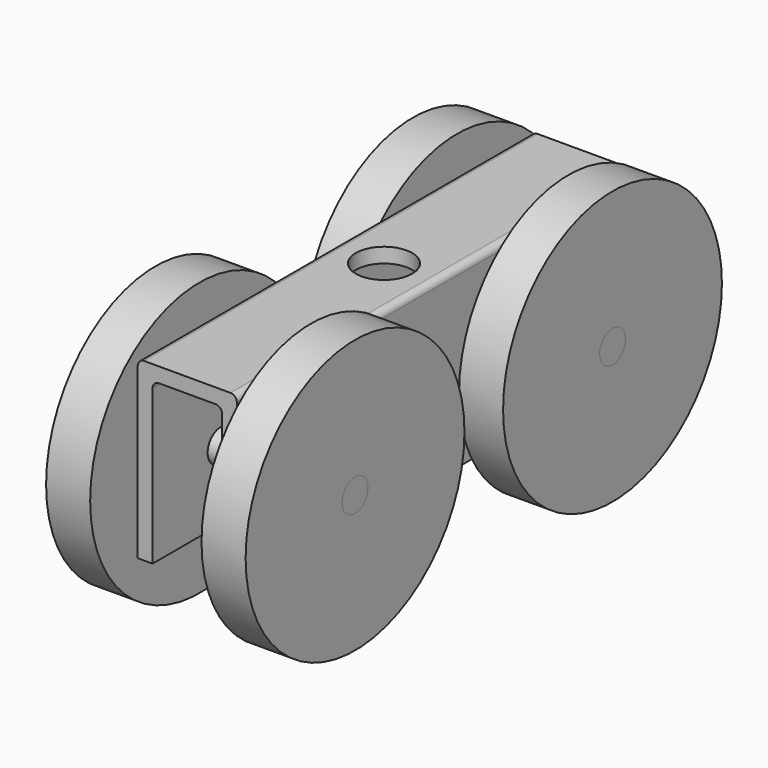
from build123d import *

# Parameters (mm, degrees)
F1_DEPTH  = 48.514
F2_R      = 3.175
F3_DEPTH  = 19.558
F4_R      = 3.175
F5_DEPTH  = 19.685
F6_R      = 26.9875
F7_DEPTH  = 8.6995
F9_R      = 5.55625
F10_DEPTH = 2.921


with BuildPart() as f1:
    # F0 (on Front) → F1 (new body, symmetric)
    with BuildSketch(Plane.XZ):
        with BuildLine():
            ThreePointArc((9.779, 16.0655), (9.407026, 16.963526), (8.509, 17.3355))
            Line((8.509, 17.3355), (-8.509, 17.3355))
            ThreePointArc((-8.509, 17.3355), (-9.407026, 16.963526), (-9.779, 16.0655))
            Line((-9.779, 16.0655), (-9.779, -17.3355))
            Line((-9.779, -17.3355), (-6.858, -17.3355))
            Line((-6.858, -17.3355), (-6.858, 13.1445))
            ThreePointArc((-6.858, 13.1445), (-6.486026, 14.042526), (-5.588, 14.4145))
            Line((-5.588, 14.4145), (5.588, 14.4145))
            ThreePointArc((5.588, 14.4145), (6.486026, 14.042526), (6.858, 13.1445))
            Line((6.858, 13.1445), (6.858, -17.3355))
            Line((6.858, -17.3355), (9.779, -17.3355))
            Line((9.779, -17.3355), (9.779, 16.0655))
        make_face()
    extrude(amount=F1_DEPTH, both=True)

    # F2 (on face) → F3 (cut, through all)
    with BuildSketch(Plane.YZ.offset(9.779)):
        with Locations((-31.75, -3.6195)):
            Circle(F2_R)
        with Locations((31.75, -3.6195)):
            Circle(F2_R)
    extrude(amount=-F3_DEPTH, mode=Mode.SUBTRACT)

    # F4 (on Right) → F5 (join, symmetric)
    with BuildSketch(Plane.YZ):
        with Locations((-31.75, -3.6195)):
            Circle(F4_R)
        with Locations((31.75, -3.6195)):
            Circle(F4_R)
    extrude(amount=F5_DEPTH, both=True)

    # F6 (on face) → F7 (join)
    with BuildSketch(Plane.YZ.offset(19.685)):
        with Locations((-31.75, -3.6195)):
            Circle(F6_R)
        with Locations((31.75, -3.6195)):
            Circle(F6_R)
    extrude(amount=-F7_DEPTH)

    # F8: F1 across plane


with BuildPart() as f1_1:
    add(f1.part)
    add(f1.part.mirror(Plane.YZ))

    # F9 (on face) → F10 (cut, through all)
    with BuildSketch(Plane.XY.offset(17.3355)):
        Circle(F9_R)
    extrude(amount=-F10_DEPTH, mode=Mode.SUBTRACT)


solid = f1_1.part
